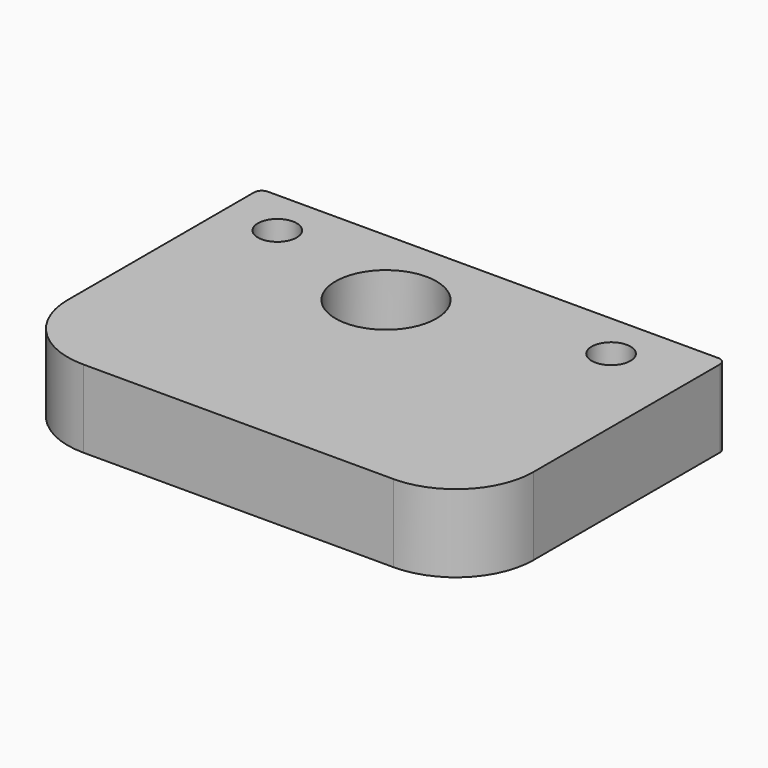
from build123d import *

# Parameters (mm, degrees)
SKETCH_W    = 60
SKETCH_H    = 41
SKETCH_R    = 2.5
SKETCH_R_2  = 6.5
PAD_DEPTH   = 10
FILLET_R    = 10
FILLET001_R = 1


with BuildPart() as part:
    # Sketch → Pad (new body)
    with BuildSketch(Plane.XY):
        with Locations((5, -94.5)):
            Rectangle(SKETCH_W, SKETCH_H)
        with Locations((25, -80)):
            Circle(SKETCH_R, mode=Mode.SUBTRACT)
        with Locations((-18, -80)):
            Circle(SKETCH_R, mode=Mode.SUBTRACT)
        with Locations((0, -85)):
            Circle(SKETCH_R_2, mode=Mode.SUBTRACT)
    extrude(amount=PAD_DEPTH)

    # Fillet
    fillet_edges = [part.edges().sort_by_distance(p)[0] for p in [
        (-25, -115, 5),
        (35, -115, 5),
    ]]
    fillet(fillet_edges, radius=FILLET_R)

    # Fillet001
    fillet001_edges = [part.edges().sort_by_distance(p)[0] for p in [
        (-25, -74, 5),
        (35, -74, 5),
    ]]
    fillet(fillet001_edges, radius=FILLET001_R)


solid = part.part
